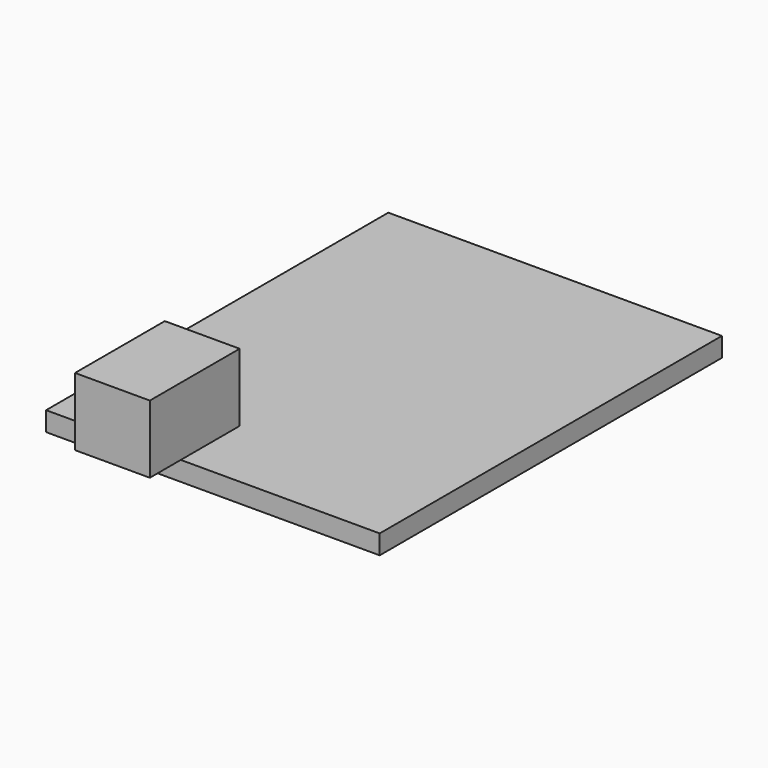
from build123d import *

# Parameters (mm, degrees)
F0_W     = 53.5
F0_H     = 68.6
F1_DEPTH = 3.1
F2_W     = 12
F2_H     = 18
F3_DEPTH = 10.9


with BuildPart() as f1:
    # F0 (on Top) → F1 (new body)
    with BuildSketch(Plane.XY):
        Rectangle(F0_W, F0_H)
    extrude(amount=-F1_DEPTH)

    # F2 (on Top) → F3 (join)
    with BuildSketch(Plane.XY):
        with Locations((-11.15, -31.5)):
            Rectangle(F2_W, F2_H)
    extrude(amount=F3_DEPTH)


solid = f1.part
